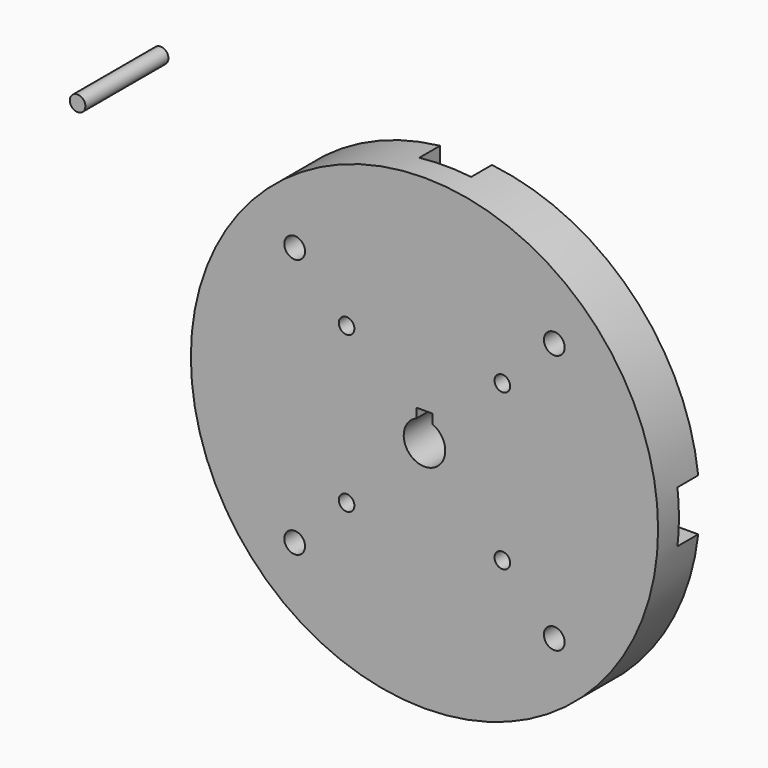
from build123d import *

# Parameters (mm, degrees)
F0_R     = 45
F0_R_2   = 2
F0_R_3   = 1.5
F1_DEPTH = 10
F3_DEPTH = 5
F4_R     = 1.5
F5_DEPTH = 20


with BuildPart() as f1:
    # F0 (on Front) → F1 (new body)
    with BuildSketch(Plane.XZ):
        Circle(F0_R)
        with Locations((-25, -25)):
            Circle(F0_R_2, mode=Mode.SUBTRACT)
        with Locations((-15, -15)):
            Circle(F0_R_3, mode=Mode.SUBTRACT)
        with Locations((25, -25)):
            Circle(F0_R_2, mode=Mode.SUBTRACT)
        with Locations((15, -15)):
            Circle(F0_R_3, mode=Mode.SUBTRACT)
        with BuildLine():
            ThreePointArc((1.5, 3.708099), (0, -4), (-1.5, 3.708099))
            Line((-1.5, 3.708099), (-1.5, 5.5))
            Line((-1.5, 5.5), (1.5, 5.5))
            Line((1.5, 5.5), (1.5, 3.708099))
        make_face(mode=Mode.SUBTRACT)
        with Locations((-15, 15)):
            Circle(F0_R_3, mode=Mode.SUBTRACT)
        with Locations((-25, 25)):
            Circle(F0_R_2, mode=Mode.SUBTRACT)
        with Locations((15, 15)):
            Circle(F0_R_3, mode=Mode.SUBTRACT)
        with Locations((25, 25)):
            Circle(F0_R_2, mode=Mode.SUBTRACT)
    extrude(amount=F1_DEPTH)

    # F2 (on Front) → F3 (cut)
    with BuildSketch(Plane.XZ):
        with BuildLine():
            Line((45, 5), (12, 5))
            ThreePointArc((12, 5), (9.87868, 4.12132), (9, 2))
            Line((9, 2), (9, -2))
            ThreePointArc((9, -2), (9.87868, -4.12132), (12, -5))
            Line((12, -5), (45, -5))
            Line((45, -5), (45, 5))
        make_face()
        with BuildLine():
            Line((-5, 45), (-5, 12))
            ThreePointArc((-5, 12), (-4.12132, 9.87868), (-2, 9))
            Line((-2, 9), (2, 9))
            ThreePointArc((2, 9), (4.12132, 9.87868), (5, 12))
            Line((5, 12), (5, 45))
            Line((5, 45), (-5, 45))
        make_face()
        with BuildLine():
            Line((-45, -5), (-12, -5))
            ThreePointArc((-12, -5), (-9.87868, -4.12132), (-9, -2))
            Line((-9, -2), (-9, 2))
            ThreePointArc((-9, 2), (-9.87868, 4.12132), (-12, 5))
            Line((-12, 5), (-45, 5))
            Line((-45, 5), (-45, -5))
        make_face()
        with BuildLine():
            Line((5, -45), (5, -12))
            ThreePointArc((5, -12), (4.12132, -9.87868), (2, -9))
            Line((2, -9), (-2, -9))
            ThreePointArc((-2, -9), (-4.12132, -9.87868), (-5, -12))
            Line((-5, -12), (-5, -45))
            Line((-5, -45), (5, -45))
        make_face()
    extrude(amount=F3_DEPTH, mode=Mode.SUBTRACT)


with BuildPart() as f5:
    # F4 (on Front) → F5 (new body)
    with BuildSketch(Plane.XZ):
        with Locations((-58.816873, 42.543855)):
            Circle(F4_R)
    extrude(amount=F5_DEPTH)


solid = Compound([f1.part, f5.part])
